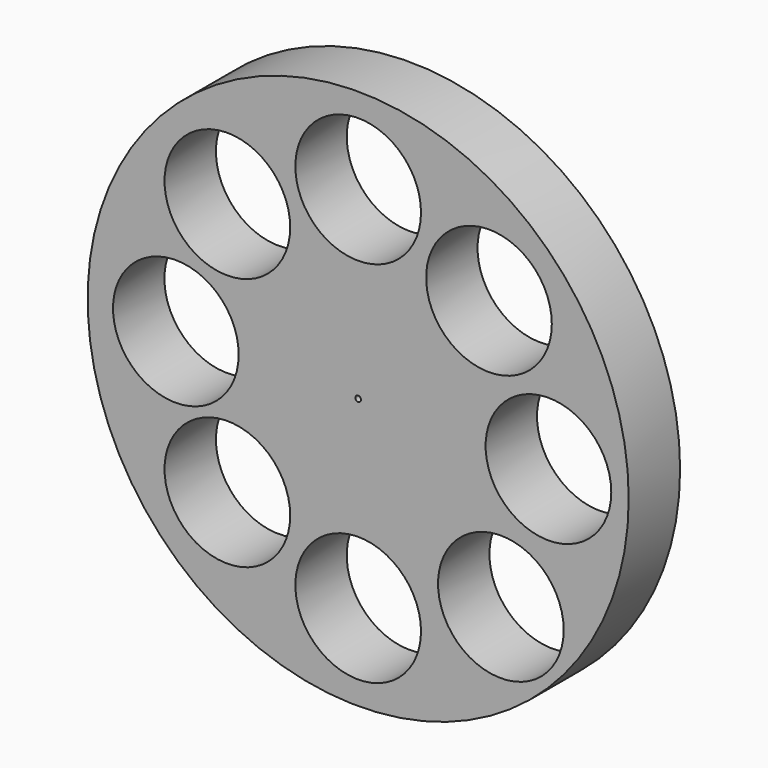
from build123d import *

# Parameters (mm, degrees)
F0_R   = 19.4691
F0_R_2 = 4.5212
F0_R_3 = 0.2032


with BuildPart() as f2:
    # F2: sweep along a path in F1
    with BuildLine(Plane.YZ) as f2_path:
        Line((0, 0), (4.6228, 0))
    # F0 (on Front) → F2 (sweep)
    with BuildSketch(Plane.XZ):
        Circle(F0_R)
        with Locations((-9.412942, -8.98508)):
            Circle(F0_R_2, mode=Mode.SUBTRACT)
        with Locations((0, -13.26369)):
            Circle(F0_R_2, mode=Mode.SUBTRACT)
        with Locations((10.268663, -9.840802)):
            Circle(F0_R_2, mode=Mode.SUBTRACT)
        with Locations((-13.121069, 0)):
            Circle(F0_R_2, mode=Mode.SUBTRACT)
        with Locations((-9.412942, 9.270322)):
            Circle(F0_R_2, mode=Mode.SUBTRACT)
        Circle(F0_R_3, mode=Mode.SUBTRACT)
        with Locations((9.412941, 9.270322)):
            Circle(F0_R_2, mode=Mode.SUBTRACT)
        with Locations((13.691549, 0)):
            Circle(F0_R_2, mode=Mode.SUBTRACT)
        with Locations((0, 13.26369)):
            Circle(F0_R_2, mode=Mode.SUBTRACT)
    sweep(path=f2_path.line)


solid = f2.part
